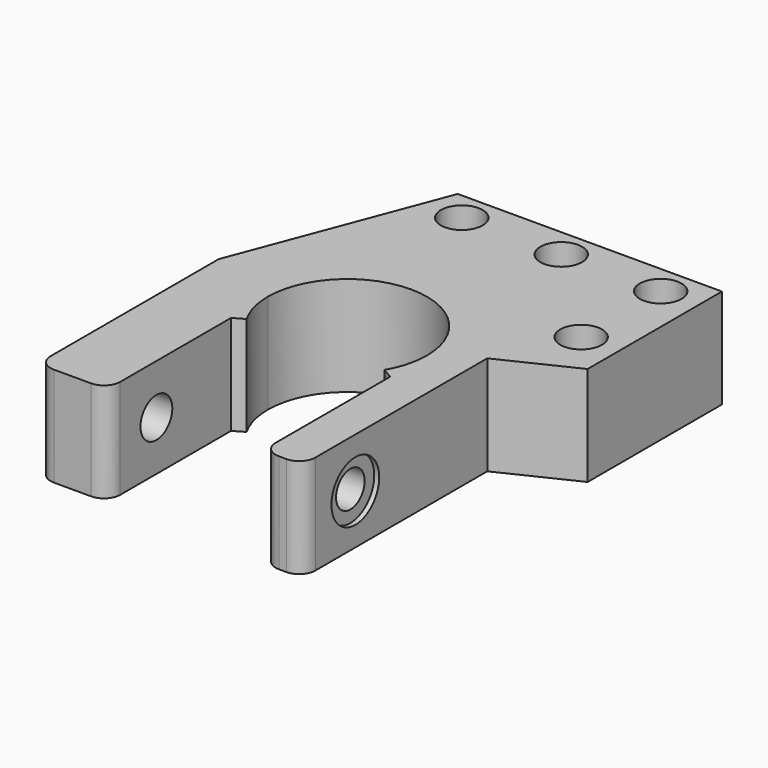
from build123d import *

# Parameters (mm, degrees)
CYLINDER011012_R               = 1.8
CYLINDER011012_DEPTH           = 20
CYLINDER011013_R               = 3
CYLINDER011013_DEPTH           = 20
BOX010_W                       = 20
BOX010_H                       = 10
BOX010_DEPTH                   = 20
CYLINDER011029_R               = 2.1
CYLINDER011029_DEPTH           = 20
ARRAY017_X_COUNT               = 4
ARRAY017_X_PITCH               = 10
ARRAY017_Y_COUNT               = 2
ARRAY017_Y_PITCH               = 10
CYLINDER011011_R               = 2
CYLINDER011011_DEPTH           = 20
CYLINDER011014_R               = 8
CYLINDER011014_DEPTH           = 10
CYLINDER011015_W               = 11
CYLINDER011015_H               = 10
CYLINDER011015_ANGLE           = 240
CYLINDER011015_PLACEMENT_ANGLE = 150
PAD_DEPTH                      = 10


with BuildPart() as bolt_hole001:
    # Cylinder011012 → Cylinder011012 (new body)
    with BuildSketch(Plane(origin=(-1, 14, 5), x_dir=(0, 0, -1), z_dir=(1, 0, 0))):
        Circle(CYLINDER011012_R)
    extrude(amount=CYLINDER011012_DEPTH)


with BuildPart() as bolt_head_hole:
    # Cylinder011013 → Cylinder011013 (new body)
    with BuildSketch(Plane(origin=(11.5, 14, 5), x_dir=(0, 0, -1), z_dir=(1, 0, 0))):
        Circle(CYLINDER011013_R)
    extrude(amount=CYLINDER011013_DEPTH)


with BuildPart() as cube:
    # Box010 → Box010 (new body)
    with BuildSketch(Plane(origin=(-9, -14, 0), x_dir=(1, 0, 0), z_dir=(0, 0, 1))):
        with Locations((10, 5)):
            Rectangle(BOX010_W, BOX010_H)
    extrude(amount=BOX010_DEPTH)


with BuildPart() as general_insert_hole_array_cut:
    # Cylinder011029 → Cylinder011029 (new body)
    with BuildSketch(Plane.XY):
        Circle(CYLINDER011029_R)
    extrude(amount=CYLINDER011029_DEPTH)

    # Array017 X: general insert hole array cut ×4


with BuildPart() as general_insert_hole_array_cut_1:
    add(general_insert_hole_array_cut.part)
    with Locations(*[(i * ARRAY017_X_PITCH, 0, 0) for i in range(1, ARRAY017_X_COUNT)]):
        add(general_insert_hole_array_cut.part)

    # Array017 Y: general insert hole array cut ×2


with BuildPart() as general_insert_hole_array_cut_2:
    add(general_insert_hole_array_cut_1.part)
    with Locations(*[(0, i * ARRAY017_Y_PITCH, 0) for i in range(1, ARRAY017_Y_COUNT)]):
        add(general_insert_hole_array_cut_1.part)


with BuildPart() as general_insert_hole_array_cut_3:
    # Array017 placement: moved
    add(general_insert_hole_array_cut_2.part.moved(Location((-4.5, -20, 0))))

    # Cut023015009020: cut Cube
    add(cube.part, mode=Mode.SUBTRACT)


with BuildPart() as shaft_attachment_hole_fusion:
    # Cylinder011011 → Cylinder011011 (new body)
    with BuildSketch(Plane(origin=(-22, 14, 5), x_dir=(0, 0, -1), z_dir=(1, 0, 0))):
        Circle(CYLINDER011011_R)
    extrude(amount=CYLINDER011011_DEPTH)

    # Fusion004: union bolt hole001, bolt head hole, general insert hole array cut
    add(bolt_hole001.part)
    add(bolt_head_hole.part)
    add(general_insert_hole_array_cut_3.part)


with BuildPart() as cylinder:
    # Cylinder011014 → Cylinder011014 (new body)
    with BuildSketch(Plane.XY):
        Circle(CYLINDER011014_R)
    extrude(amount=CYLINDER011014_DEPTH)


with BuildPart() as cut023015009010:
    # Cylinder011015 → Cylinder011015 (revolve)
    with BuildSketch(Plane.XZ):
        with Locations((5.5, 5)):
            Rectangle(CYLINDER011015_W, CYLINDER011015_H)
    revolve(axis=Axis((0, 0, 0), (0, 0, 1)), revolution_arc=CYLINDER011015_ANGLE)


with BuildPart() as cut023015009010_1:
    # Cylinder011015 placement: moved
    add(cut023015009010.part.rotate(Axis((0, 0, 0), (0, 0, 1)), CYLINDER011015_PLACEMENT_ANGLE))

    # Cut023015009010: cut Cylinder
    add(cylinder.part, mode=Mode.SUBTRACT)


with BuildPart() as shaft_attachment_cut:
    # Sketch002 → Pad (new body)
    with BuildSketch(Plane.XY):
        with BuildLine():
            Line((12, -2.57721), (12, 19.017869))
            ThreePointArc((12, 19.017869), (11.523224, 20.168908), (10.372186, 20.645684))
            Line((10.372186, 20.645684), (9.627814, 20.645684))
            ThreePointArc((9.627814, 20.645684), (8.476776, 20.168908), (8, 19.017869))
            Line((8, 19.017869), (8, 0))
            ThreePointArc((-8, 0), (0, -8), (8, 0))
            Line((-8, 0), (-8, 18.544726))
            ThreePointArc((-8, 18.544726), (-8.476776, 19.695765), (-9.627814, 20.17254))
            Line((-9.627814, 20.17254), (-13.372186, 20.17254))
            ThreePointArc((-13.372186, 20.17254), (-14.523224, 19.695765), (-15, 18.544726))
            Line((-15, 18.544726), (-15, -2.57721))
            Line((-15, -2.57721), (-7.274933, -22.958025))
            Line((-7.274933, -22.958025), (19.286886, -22.958025))
            Line((19.286886, -22.958025), (19.286886, -6.082279))
            Line((19.286886, -6.082279), (12, -2.57721))
        make_face()
    extrude(amount=PAD_DEPTH)

    # Fusion005: union Cut023015009010
    add(cut023015009010_1.part)

    # Cut023015009009: cut shaft attachment hole fusion
    add(shaft_attachment_hole_fusion.part, mode=Mode.SUBTRACT)


with BuildPart() as part_mirroring001:
    # Part__Mirroring001: instance of shaft attachment  cut
    add(shaft_attachment_cut.part.mirror(Plane(origin=(0, -50, 0), x_dir=(1, 0, 0), z_dir=(0, 1, 0))))


solid = part_mirroring001.part
